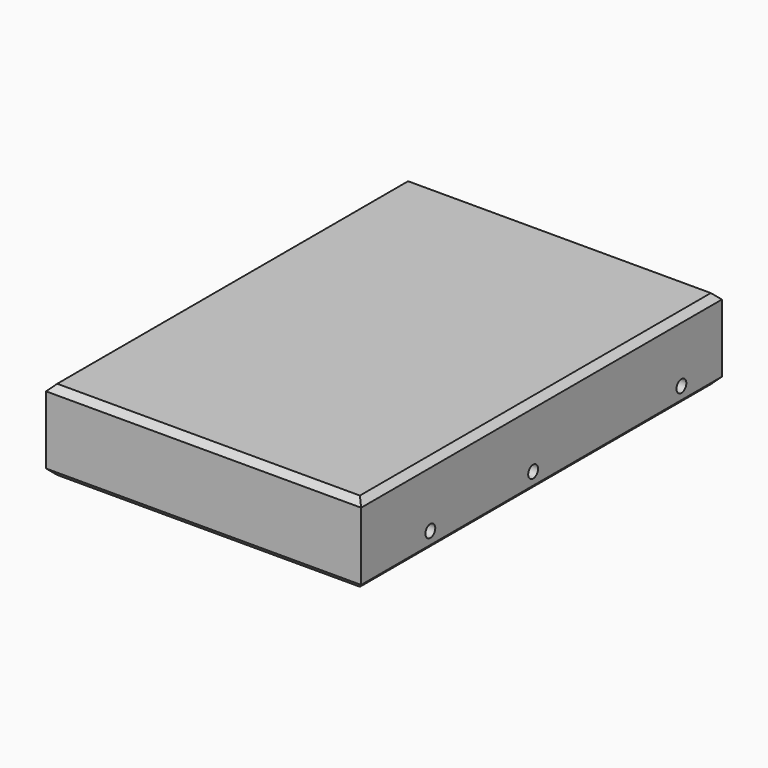
from build123d import *

# Parameters (mm, degrees)
SKETCH046_W             = 102
SKETCH046_H             = 146
PAD012_DEPTH            = 26
SKETCH047_R             = 2
POCKET033_DEPTH         = 102.001
CHAMFER001_SIZE         = 2
BODY010_PLACEMENT_ANGLE = 180


with BuildPart() as part:
    # Sketch046 → Pad012 (new body)
    with BuildSketch(Plane.XY):
        Rectangle(SKETCH046_W, SKETCH046_H)
    extrude(amount=PAD012_DEPTH)

    # Sketch047 (on Face3 of Pad012) → Pocket033 (cut, through all)
    with BuildSketch(Plane.YZ.offset(51)):
        with Locations((45, 6)):
            Circle(SKETCH047_R)
        with Locations((3.4, 6)):
            Circle(SKETCH047_R)
        with Locations((-56.6, 6)):
            Circle(SKETCH047_R)
    extrude(amount=-POCKET033_DEPTH, mode=Mode.SUBTRACT)

    # Chamfer001
    chamfer001_edges = [part.edges().sort_by_distance(p)[0] for p in [
        (-51, 0, 0),
        (0, -73, 0),
        (51, 0, 0),
        (0, 73, 0),
        (-51, 0, 26),
        (0, -73, 26),
        (51, 0, 26),
        (0, 73, 26),
    ]]
    chamfer(chamfer001_edges, length=CHAMFER001_SIZE)


with BuildPart() as part_1:
    # Body010 placement: moved
    add(part.part.moved(Location((63.5, 58.3, 8))).rotate(Axis((63.5, 58.3, 8), (0, 0, 1)), BODY010_PLACEMENT_ANGLE))


solid = part_1.part
